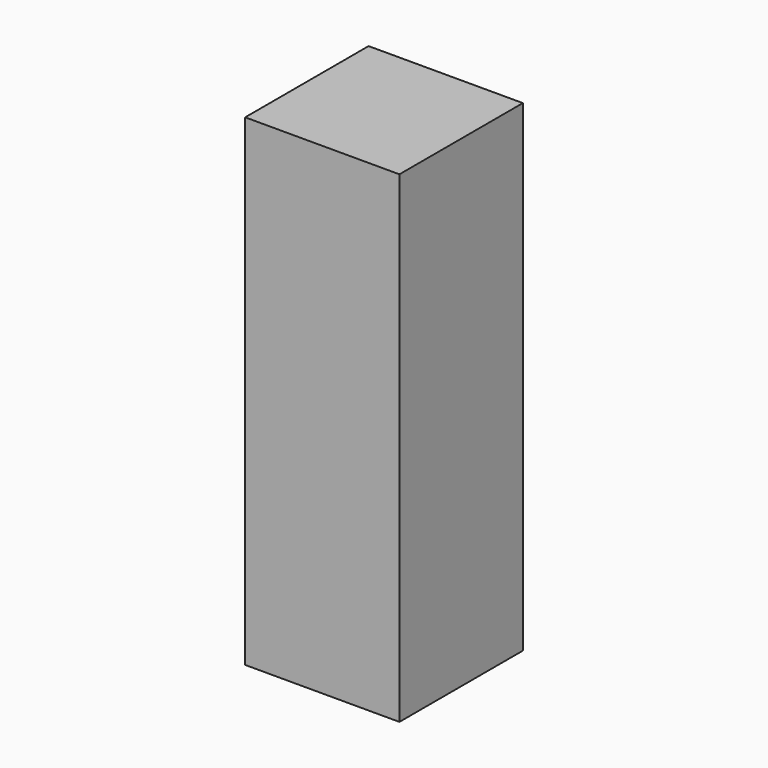
from build123d import *

# Parameters (mm, degrees)
SKETCH_W      = 16
SKETCH_H      = 16
EXTRUDE_DEPTH = 50


with BuildPart() as part:
    # Sketch → Extrude (new body)
    with BuildSketch(Plane.XY):
        Rectangle(SKETCH_W, SKETCH_H)
    extrude(amount=EXTRUDE_DEPTH)


solid = part.part
